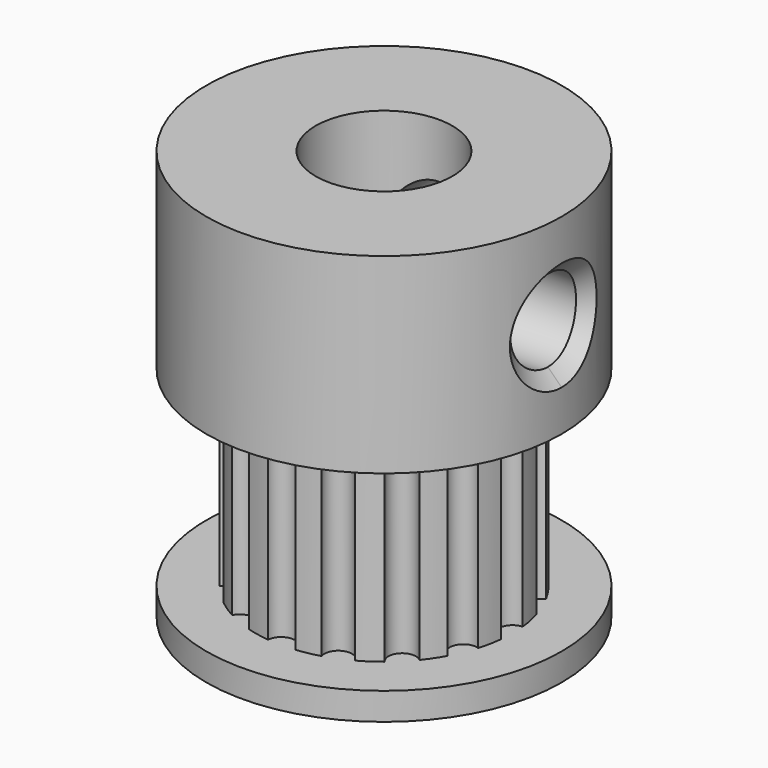
from build123d import *

# Parameters (mm, degrees)
SKETCH053_R            = 0.5
PAD041_DEPTH           = 7
SKETCH078_R            = 1.5
PAD057_DEPTH           = 8
SKETCH076_R            = 1.5
PAD049_DEPTH           = 8
SKETCH077_R            = 2.5
POCKET003_DEPTH        = 15
CHAMFER_SIZE           = 0.5
CHAMFER001_SIZE        = 0.5
CUT002_PLACEMENT_ANGLE = 180


with BuildPart() as pad041:
    # Sketch053 → Pad041 (new body)
    with BuildSketch(Plane.XY.offset(14)):
        with Locations((0, 4.7)):
            Circle(SKETCH053_R)
        with Locations((0, -4.7)):
            Circle(SKETCH053_R)
        with Locations((4.7, 0)):
            Circle(SKETCH053_R)
        with Locations((-4.7, 0)):
            Circle(SKETCH053_R)
        with Locations((-3.323402, 3.323402)):
            Circle(SKETCH053_R)
        with Locations((3.323402, 3.323402)):
            Circle(SKETCH053_R)
        with Locations((-3.323402, -3.323402)):
            Circle(SKETCH053_R)
        with Locations((3.323402, -3.323402)):
            Circle(SKETCH053_R)
        with Locations((-1.798612, 4.342234)):
            Circle(SKETCH053_R)
        with Locations((1.798612, 4.342234)):
            Circle(SKETCH053_R)
        with Locations((4.342234, 1.798612)):
            Circle(SKETCH053_R)
        with Locations((4.342234, -1.798612)):
            Circle(SKETCH053_R)
        with Locations((1.798612, -4.342234)):
            Circle(SKETCH053_R)
        with Locations((-1.798612, -4.342234)):
            Circle(SKETCH053_R)
        with Locations((-4.342234, -1.798612)):
            Circle(SKETCH053_R)
        with Locations((-4.314713, 1.863666)):
            Circle(SKETCH053_R)
    extrude(amount=-PAD041_DEPTH)


with BuildPart() as pad057:
    # Sketch078 → Pad057 (new body)
    with BuildSketch(Plane(origin=(7, 0, 3.5), x_dir=(0, 1, 0), z_dir=(1, 0, 0))):
        Circle(SKETCH078_R)
    extrude(amount=-PAD057_DEPTH)


with BuildPart() as pad049:
    # Sketch076 → Pad049 (new body)
    with BuildSketch(Plane(origin=(0, -7, 3.5), x_dir=(1, 0, 0), z_dir=(0, -1, 0))):
        Circle(SKETCH076_R)
    extrude(amount=-PAD049_DEPTH)


with BuildPart() as gt1_pulley:
    # Sketch062 → Revolution008 (revolve)
    with BuildSketch(Plane.XZ):
        Polygon((0, 0), (6.5, 0), (6.5, 7), (4.7, 7), (4.7, 14), (6.5, 14), (6.5, 15), (0, 15), align=None)
    revolve(axis=Axis((0, 0, 0), (0, 0, 1)))

    # Sketch077 (on Face7 of Revolution008) → Pocket003 (cut)
    with BuildSketch(Plane(origin=(0, 0, 15), x_dir=(-1, 0, 0), z_dir=(0, 0, 1))):
        Circle(SKETCH077_R)
    extrude(amount=-POCKET003_DEPTH, mode=Mode.SUBTRACT)

    # Cut: cut Pad049
    add(pad049.part, mode=Mode.SUBTRACT)

    # Cut001: cut Pad057
    add(pad057.part, mode=Mode.SUBTRACT)

    # Chamfer
    chamfer_edges = [gt1_pulley.edges().sort_by_distance(p)[0] for p in [
        (-4e-06, -6.499997, 4.999986),
        (-4e-06, -6.499997, 2.000014),
        (6.412872, 1.060693, 4.560627),
        (6.412872, 1.060693, 2.439373),
        (6.412872, -1.060693, 2.439373),
        (6.412872, -1.060693, 4.560627),
    ]]
    chamfer(chamfer_edges, length=CHAMFER_SIZE)

    # Chamfer001
    chamfer001_edges = [gt1_pulley.edges().sort_by_distance(p)[0] for p in [
        (2.5, 0, 15),
    ]]
    chamfer(chamfer001_edges, length=CHAMFER001_SIZE)

    # Cut002: cut Pad041
    add(pad041.part, mode=Mode.SUBTRACT)


with BuildPart() as gt1_pulley_1:
    # Cut002 placement: moved
    add(gt1_pulley.part.moved(Location((4, 0, 26))).rotate(Axis((4, 0, 26), (1, 0, 0)), CUT002_PLACEMENT_ANGLE))


solid = gt1_pulley_1.part
